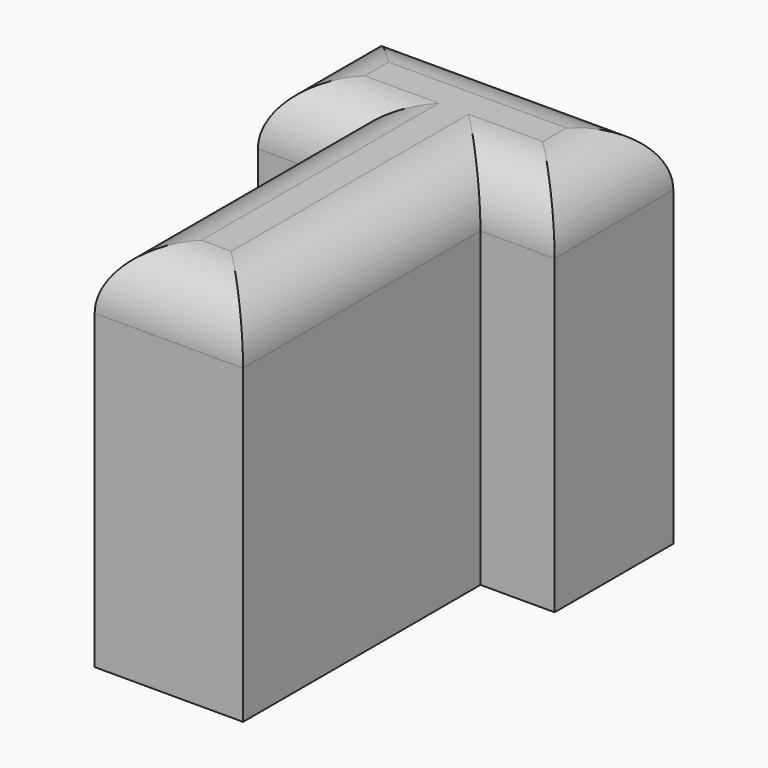
from build123d import *

# Parameters (mm, degrees)
F1_DEPTH = 31.75
F2_R     = 5.08


with BuildPart() as f1:
    # F0 (on Top) → F1 (new body)
    with BuildSketch(Plane.XY):
        Polygon((0, 25.4), (0, 0), (12.7, 0), (12.7, 25.4), (19.05, 25.4), (19.05, 38.1), (-6.35, 38.1), (-6.35, 25.4), align=None)
    extrude(amount=-F1_DEPTH)

    # F2
    f2_edges = [f1.edges().sort_by_distance(p)[0] for p in [
        (6.35, 0, 0),
        (0, 12.7, 0),
        (-3.175, 25.4, 0),
        (-6.35, 31.75, 0),
        (6.35, 38.1, 0),
        (19.05, 31.75, 0),
        (15.875, 25.4, 0),
        (12.7, 12.7, 0),
    ]]
    fillet(f2_edges, radius=F2_R)


solid = f1.part
